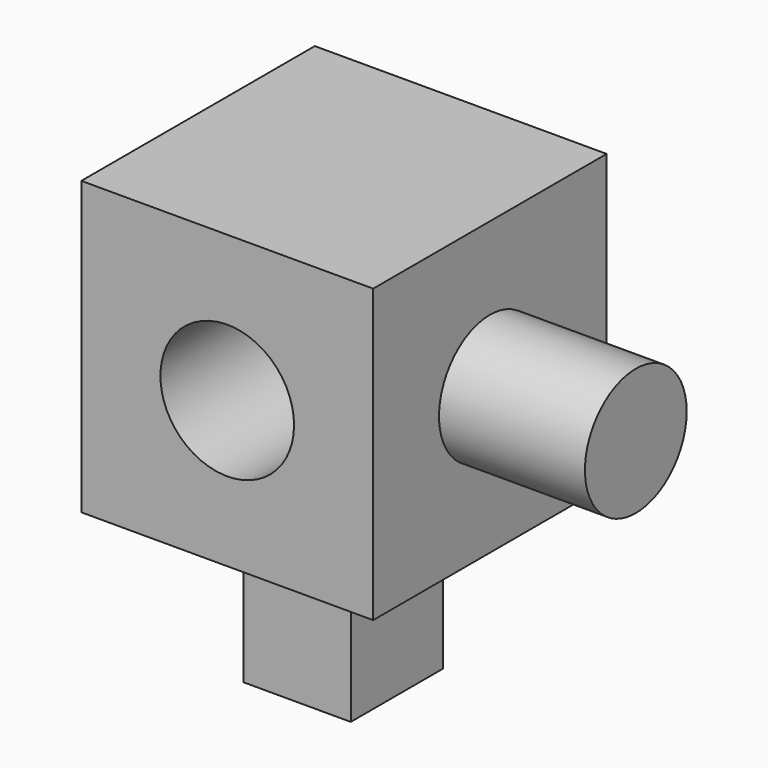
from build123d import *

# Parameters (mm, degrees)
F0_W     = 50.8
F0_H     = 50.8
F0_R     = 11.629438
F1_DEPTH = 50.8
F2_W     = 18.713556
F2_H     = 20.050238
F3_DEPTH = 25.4
F4_R     = 11.069142
F5_DEPTH = 25.4


with BuildPart() as f1:
    # F0 (on Front) → F1 (new body)
    with BuildSketch(Plane.XZ):
        with Locations((25.4, 25.4)):
            Rectangle(F0_W, F0_H)
        with Locations((25.4, 25.4)):
            Circle(F0_R, mode=Mode.SUBTRACT)
    extrude(amount=F1_DEPTH)

    # F2 (on face) → F3 (join)
    with BuildSketch(Plane(origin=(0, 0, 0), x_dir=(1, 0, 0), z_dir=(0, 0, -1))):
        with Locations((27.306516, 27.974857)):
            Rectangle(F2_W, F2_H)
    extrude(amount=F3_DEPTH)

    # F4 (on face) → F5 (join)
    with BuildSketch(Plane.YZ.offset(50.8)):
        with Locations((-25.4, 25.4)):
            Circle(F4_R)
    extrude(amount=F5_DEPTH)


solid = f1.part
